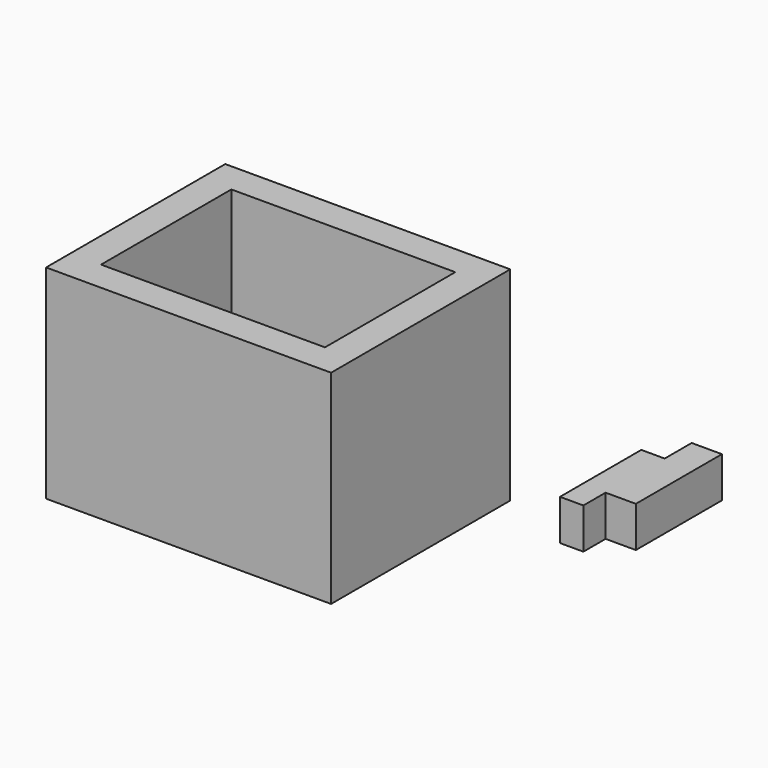
from build123d import *

# Parameters (mm, degrees)
F0_W     = 139.7
F0_H     = 19.05
F1_DEPTH = 127
F3_DEPTH = 25.4


with BuildPart() as f1:
    # F0 (on Top) → F1 (new body)
    with BuildSketch(Plane.XY):
        Polygon((-297.066145, 0), (-316.116145, 0), (-316.116145, -139.7), (-297.066145, -139.7), (-297.066145, -120.65), (-297.066145, -19.05), align=None)
        with Locations((-227.216145, -9.525)):
            Rectangle(F0_W, F0_H)
        Polygon((-138.316145, 0), (-157.366145, 0), (-157.366145, -19.05), (-157.366145, -120.65), (-157.366145, -139.7), (-138.316145, -139.7), align=None)
        Polygon((-297.066145, -120.65), (-297.066145, -139.7), (-296.983391, -139.7), (-157.366145, -139.7), (-157.366145, -120.65), align=None)
    extrude(amount=F1_DEPTH)


with BuildPart() as f3:
    # F2 (on Top) → F3 (new body)
    with BuildSketch(Plane.XY):
        Polygon((-76.786309, 43.534547), (-91.379844, 43.534547), (-91.379844, -19.877201), (-76.786309, -19.877201), (-76.786309, -2.558584), align=None)
        Polygon((-76.786309, 64.563766), (-76.786309, 43.534547), (-76.786309, -2.558584), (-57.902455, -2.558584), (-57.902455, 64.563766), align=None)
    extrude(amount=F3_DEPTH)


solid = Compound([f1.part, f3.part])
